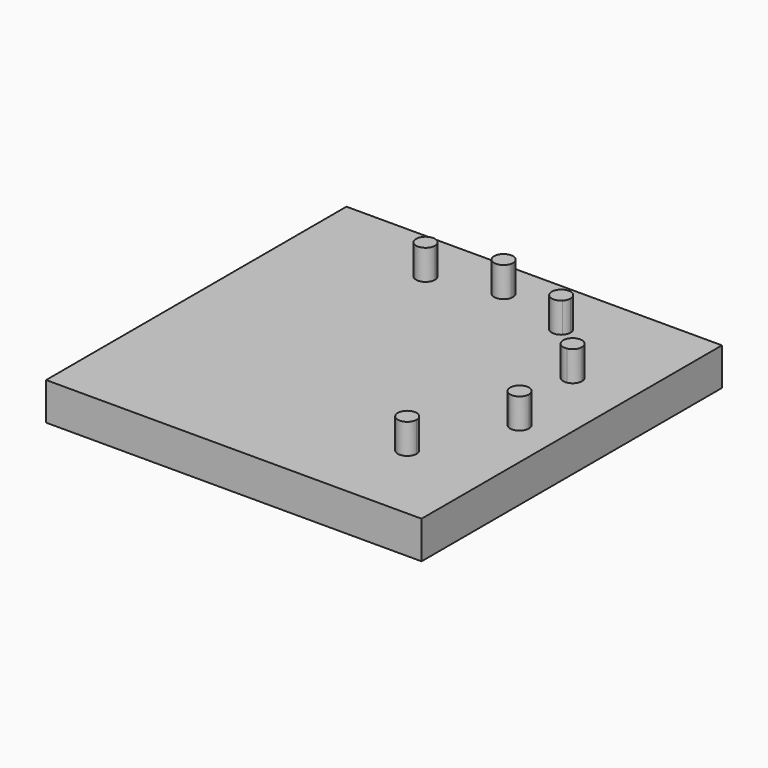
from build123d import *

# Parameters (mm, degrees)
F0_W     = 100
F0_H     = 100
F1_DEPTH = 10
F3_DEPTH = 8


with BuildPart() as f1:
    # F0 (on Top) → F1 (new body)
    with BuildSketch(Plane.XY):
        Rectangle(F0_W, F0_H)
    extrude(amount=F1_DEPTH)

    # F2 (on face) → F3 (join)
    with BuildSketch(Plane.XY.offset(10)):
        with BuildLine():
            ThreePointArc((-15.098755, 36.308361), (-20.017806, 35.458787), (-15.034038, 35.743209))
            ThreePointArc((-15.034038, 35.743209), (-15.05027, 36.027632), (-15.098755, 36.308361))
        make_face()
        with BuildLine():
            ThreePointArc((30.956892, -27.842858), (30.569075, -26.505442), (29.525946, -25.582964))
            ThreePointArc((29.525946, -25.582964), (26.344709, -29.180275), (30.956892, -27.842858))
        make_face()
        with BuildLine():
            ThreePointArc((42.075047, -4.339951), (41.160451, -2.40695), (39.085853, -1.888281))
            Line((39.085853, -1.888281), (39.575047, -4.339951))
            Line((39.575047, -4.339951), (38.505993, -6.599846))
            ThreePointArc((38.505993, -6.599846), (40.912463, -6.452134), (42.075047, -4.339951))
        make_face()
        with BuildLine():
            Line((39.575047, -4.339951), (39.085853, -1.888281))
            ThreePointArc((39.085853, -1.888281), (37.093767, -4.034577), (38.505993, -6.599846))
            Line((38.505993, -6.599846), (39.575047, -4.339951))
        make_face()
        with BuildLine():
            ThreePointArc((37.378786, 19.196088), (35.838191, 21.504668), (33.115153, 20.967979))
            Line((33.115153, 20.967979), (34.878786, 19.196088))
            Line((34.878786, 19.196088), (35.36798, 16.744417))
            ThreePointArc((35.36798, 16.744417), (36.811787, 17.610683), (37.378786, 19.196088))
        make_face()
        with BuildLine():
            Line((34.878786, 19.196088), (33.115153, 20.967979))
            ThreePointArc((33.115153, 20.967979), (32.67296, 18.019511), (35.36798, 16.744417))
            Line((35.36798, 16.744417), (34.878786, 19.196088))
        make_face()
        with BuildLine():
            ThreePointArc((21.858815, 34.78873), (19.675335, 37.268612), (16.938963, 35.416677))
            Line((16.938963, 35.416677), (19.358815, 34.78873))
            Line((19.358815, 34.78873), (21.122448, 33.016839))
            ThreePointArc((21.122448, 33.016839), (21.667395, 33.829325), (21.858815, 34.78873))
        make_face()
        with BuildLine():
            Line((19.358815, 34.78873), (16.938963, 35.416677))
            ThreePointArc((16.938963, 35.416677), (18.114845, 32.620197), (21.122448, 33.016839))
            Line((21.122448, 33.016839), (19.358815, 34.78873))
        make_face()
        with BuildLine():
            ThreePointArc((2.5, 39.812303), (-0.284423, 42.296071), (-2.435283, 39.247151))
            Line((-2.435283, 39.247151), (0, 39.812303))
            Line((0, 39.812303), (2.419852, 39.184357))
            ThreePointArc((2.419852, 39.184357), (2.479882, 39.495783), (2.5, 39.812303))
        make_face()
        with BuildLine():
            Line((0, 39.812303), (-2.435283, 39.247151))
            ThreePointArc((-2.435283, 39.247151), (-0.032331, 37.312512), (2.419852, 39.184357))
            Line((2.419852, 39.184357), (0, 39.812303))
        make_face()
    extrude(amount=F3_DEPTH)


solid = f1.part
